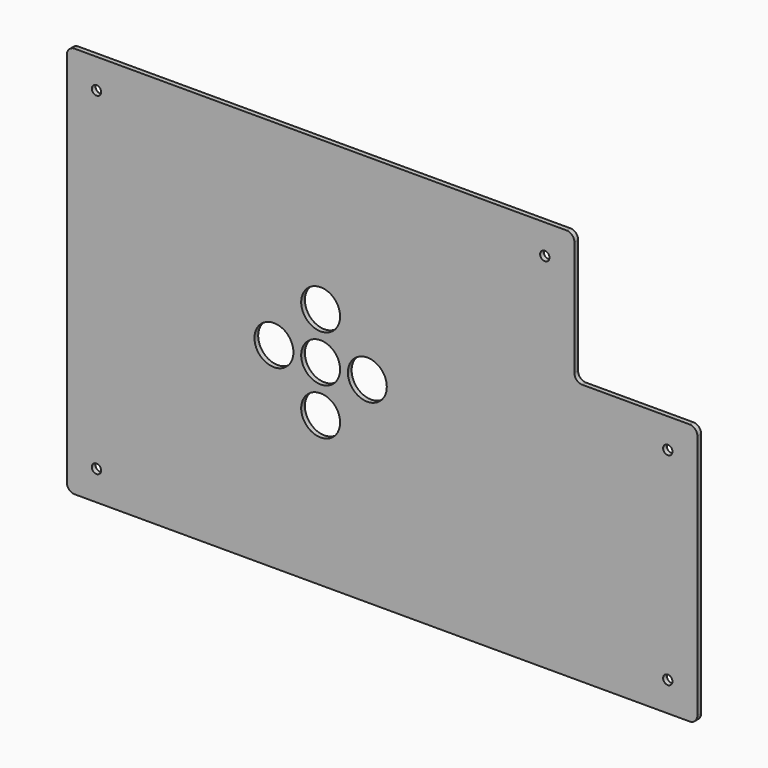
from build123d import *

# Parameters (mm, degrees)
F0_R     = 3
F0_R_2   = 12.5
F1_DEPTH = 3
F2_R     = 5
F3_R     = 5


with BuildPart() as f1:
    # F0 (on Front) → F1 (new body)
    with BuildSketch(Plane.XZ):
        Polygon((0, 252), (0, 0), (405, 0), (405, 168), (326, 168), (326, 252), align=None)
        with Locations((19, 19)):
            Circle(F0_R, mode=Mode.SUBTRACT)
        with Locations((163, 96)):
            Circle(F0_R_2, mode=Mode.SUBTRACT)
        with Locations((386, 19)):
            Circle(F0_R, mode=Mode.SUBTRACT)
        with Locations((133, 126)):
            Circle(F0_R_2, mode=Mode.SUBTRACT)
        with Locations((163, 126)):
            Circle(F0_R_2, mode=Mode.SUBTRACT)
        with Locations((193, 126)):
            Circle(F0_R_2, mode=Mode.SUBTRACT)
        with Locations((163, 156)):
            Circle(F0_R_2, mode=Mode.SUBTRACT)
        with Locations((19, 233)):
            Circle(F0_R, mode=Mode.SUBTRACT)
        with Locations((386, 149)):
            Circle(F0_R, mode=Mode.SUBTRACT)
        with Locations((307, 233)):
            Circle(F0_R, mode=Mode.SUBTRACT)
    extrude(amount=F1_DEPTH)

    # F2
    f2_edges = [f1.edges().sort_by_distance(p)[0] for p in [
        (326, -1.5, 252),
        (405, -1.5, 168),
        (405, -1.5, 0),
        (0, -1.5, 0),
        (0, -1.5, 252),
    ]]
    fillet(f2_edges, radius=F2_R)

    # F3
    f3_edges = [f1.edges().sort_by_distance(p)[0] for p in [
        (326, -1.5, 168),
    ]]
    fillet(f3_edges, radius=F3_R)


solid = f1.part
